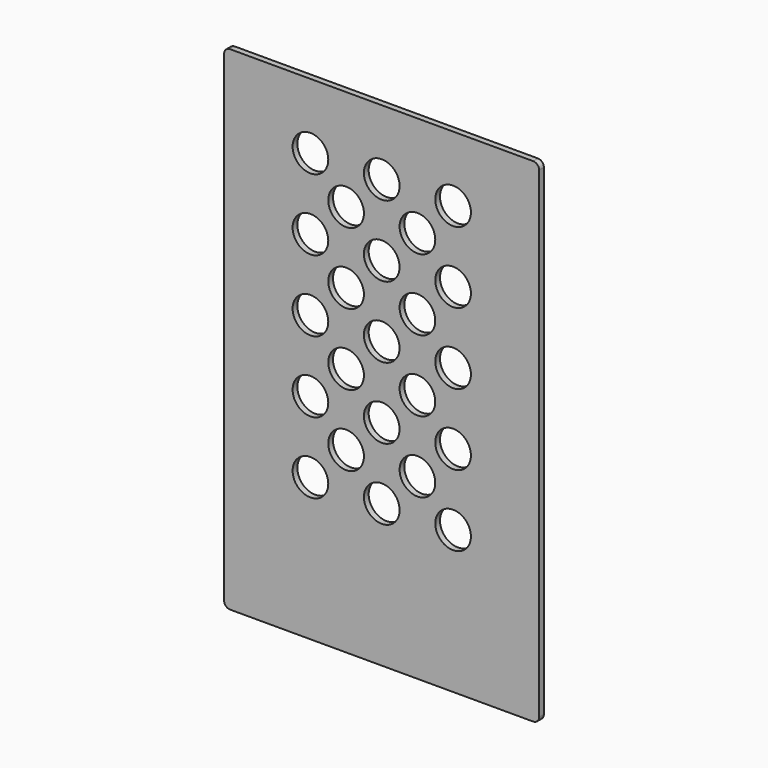
from build123d import *

# Parameters (mm, degrees)
F1_DEPTH = 9.525
F2_DEPTH = 4.7625
F3_DEPTH = 9.525
F0_W     = 234.95
F0_H     = 358.3939369202
F0_R     = 19.05
F4_DEPTH = 6.35


with BuildPart() as f1:
    # F0 (on Front) → F1 (new body)
    with BuildSketch(Plane.XZ):
        Polygon((-524.0142820795, 625.0939369202), (-530.3642820795, 625.0939369202), (-530.3642820795, 260.35), (-282.7142820795, 260.35), (-282.7142820795, 625.0939369202), (-289.0642820795, 625.0939369202), (-289.0642820795, 266.7), (-524.0142820795, 266.7), align=None)
    extrude(amount=-F1_DEPTH)

    # F0 (on Front) → F2 (cut)
    with BuildSketch(Plane.XZ):
        Polygon((-524.0142820795, 625.0939369202), (-530.3642820795, 625.0939369202), (-530.3642820795, 260.35), (-282.7142820795, 260.35), (-282.7142820795, 625.0939369202), (-289.0642820795, 625.0939369202), (-289.0642820795, 266.7), (-524.0142820795, 266.7), align=None)
    extrude(amount=-F2_DEPTH, mode=Mode.SUBTRACT)

    # F0 (on Front) → F3 (join)
    with BuildSketch(Plane.XZ):
        with BuildLine():
            ThreePointArc((-536.7142820795, 257.175), (-535.7843461097, 254.9299359697), (-533.5392820795, 254))
            Line((-533.5392820795, 254), (-279.5392820795, 254))
            ThreePointArc((-279.5392820795, 254), (-277.2942180492, 254.9299359697), (-276.3642820795, 257.175))
            Line((-276.3642820795, 257.175), (-276.3642820795, 625.0939369202))
            Line((-276.3642820795, 625.0939369202), (-282.7142820795, 625.0939369202))
            Line((-282.7142820795, 625.0939369202), (-282.7142820795, 260.35))
            Line((-282.7142820795, 260.35), (-530.3642820795, 260.35))
            Line((-530.3642820795, 260.35), (-530.3642820795, 625.0939369202))
            Line((-530.3642820795, 625.0939369202), (-536.7142820795, 625.0939369202))
            Line((-536.7142820795, 625.0939369202), (-536.7142820795, 257.175))
        make_face()
    extrude(amount=-F3_DEPTH)

    # F0 (on Front) → F4 (join)
    with BuildSketch(Plane.XZ):
        with BuildLine():
            ThreePointArc((-568.4642820795, 666.75), (-572.95441014, 664.8901280605), (-574.8142820795, 660.4))
            Line((-574.8142820795, 660.4), (-574.8142820795, 146.05))
            ThreePointArc((-574.8142820795, 146.05), (-572.95441014, 141.5598719395), (-568.4642820795, 139.7))
            Line((-568.4642820795, 139.7), (-244.6142820795, 139.7))
            ThreePointArc((-244.6142820795, 139.7), (-240.1241540189, 141.5598719395), (-238.2642820795, 146.05))
            Line((-238.2642820795, 146.05), (-238.2642820795, 660.4))
            ThreePointArc((-238.2642820795, 660.4), (-240.1241540189, 664.8901280605), (-244.6142820795, 666.75))
            Line((-244.6142820795, 666.75), (-568.4642820795, 666.75))
        make_face()
        with BuildLine():
            Line((-279.5392820795, 254), (-533.5392820795, 254))
            ThreePointArc((-533.5392820795, 254), (-535.7843461097, 254.9299359697), (-536.7142820795, 257.175))
            Line((-536.7142820795, 257.175), (-536.7142820795, 625.0939369202))
            Line((-536.7142820795, 625.0939369202), (-530.3642820795, 625.0939369202))
            Line((-530.3642820795, 625.0939369202), (-524.0142820795, 625.0939369202))
            Line((-524.0142820795, 625.0939369202), (-289.0642820795, 625.0939369202))
            Line((-289.0642820795, 625.0939369202), (-282.7142820795, 625.0939369202))
            Line((-282.7142820795, 625.0939369202), (-276.3642820795, 625.0939369202))
            Line((-276.3642820795, 625.0939369202), (-276.3642820795, 257.175))
            ThreePointArc((-276.3642820795, 257.175), (-277.2942180492, 254.9299359697), (-279.5392820795, 254))
        make_face(mode=Mode.SUBTRACT)
        with Locations((-406.5392820795, 445.8969684601)):
            Rectangle(F0_W, F0_H)
        with Locations((-482.6, 292.1)):
            Circle(F0_R, mode=Mode.SUBTRACT)
        with Locations((-444.5, 330.2)):
            Circle(F0_R, mode=Mode.SUBTRACT)
        with Locations((-482.6, 368.3)):
            Circle(F0_R, mode=Mode.SUBTRACT)
        with Locations((-406.4, 292.1)):
            Circle(F0_R, mode=Mode.SUBTRACT)
        with Locations((-368.3, 330.2)):
            Circle(F0_R, mode=Mode.SUBTRACT)
        with Locations((-330.2, 292.1)):
            Circle(F0_R, mode=Mode.SUBTRACT)
        with Locations((-406.4, 368.3)):
            Circle(F0_R, mode=Mode.SUBTRACT)
        with Locations((-330.2, 368.3)):
            Circle(F0_R, mode=Mode.SUBTRACT)
        with Locations((-482.6, 444.5)):
            Circle(F0_R, mode=Mode.SUBTRACT)
        with Locations((-444.5, 406.4)):
            Circle(F0_R, mode=Mode.SUBTRACT)
        with Locations((-482.6, 520.7)):
            Circle(F0_R, mode=Mode.SUBTRACT)
        with Locations((-444.5, 482.6)):
            Circle(F0_R, mode=Mode.SUBTRACT)
        with Locations((-482.6, 596.9)):
            Circle(F0_R, mode=Mode.SUBTRACT)
        with Locations((-444.5, 558.8)):
            Circle(F0_R, mode=Mode.SUBTRACT)
        with Locations((-368.3, 406.4)):
            Circle(F0_R, mode=Mode.SUBTRACT)
        with Locations((-406.4, 444.5)):
            Circle(F0_R, mode=Mode.SUBTRACT)
        with Locations((-330.2, 444.5)):
            Circle(F0_R, mode=Mode.SUBTRACT)
        with Locations((-368.3, 482.6)):
            Circle(F0_R, mode=Mode.SUBTRACT)
        with Locations((-406.4, 520.7)):
            Circle(F0_R, mode=Mode.SUBTRACT)
        with Locations((-330.2, 520.7)):
            Circle(F0_R, mode=Mode.SUBTRACT)
        with Locations((-368.3, 558.8)):
            Circle(F0_R, mode=Mode.SUBTRACT)
        with Locations((-406.4, 596.9)):
            Circle(F0_R, mode=Mode.SUBTRACT)
        with Locations((-330.2, 596.9)):
            Circle(F0_R, mode=Mode.SUBTRACT)
        Polygon((-524.0142820795, 625.0939369202), (-530.3642820795, 625.0939369202), (-530.3642820795, 260.35), (-282.7142820795, 260.35), (-282.7142820795, 625.0939369202), (-289.0642820795, 625.0939369202), (-289.0642820795, 266.7), (-524.0142820795, 266.7), align=None)
        with BuildLine():
            ThreePointArc((-536.7142820795, 257.175), (-535.7843461097, 254.9299359697), (-533.5392820795, 254))
            Line((-533.5392820795, 254), (-279.5392820795, 254))
            ThreePointArc((-279.5392820795, 254), (-277.2942180492, 254.9299359697), (-276.3642820795, 257.175))
            Line((-276.3642820795, 257.175), (-276.3642820795, 625.0939369202))
            Line((-276.3642820795, 625.0939369202), (-282.7142820795, 625.0939369202))
            Line((-282.7142820795, 625.0939369202), (-282.7142820795, 260.35))
            Line((-282.7142820795, 260.35), (-530.3642820795, 260.35))
            Line((-530.3642820795, 260.35), (-530.3642820795, 625.0939369202))
            Line((-530.3642820795, 625.0939369202), (-536.7142820795, 625.0939369202))
            Line((-536.7142820795, 625.0939369202), (-536.7142820795, 257.175))
        make_face()
    extrude(amount=F4_DEPTH)


solid = f1.part
